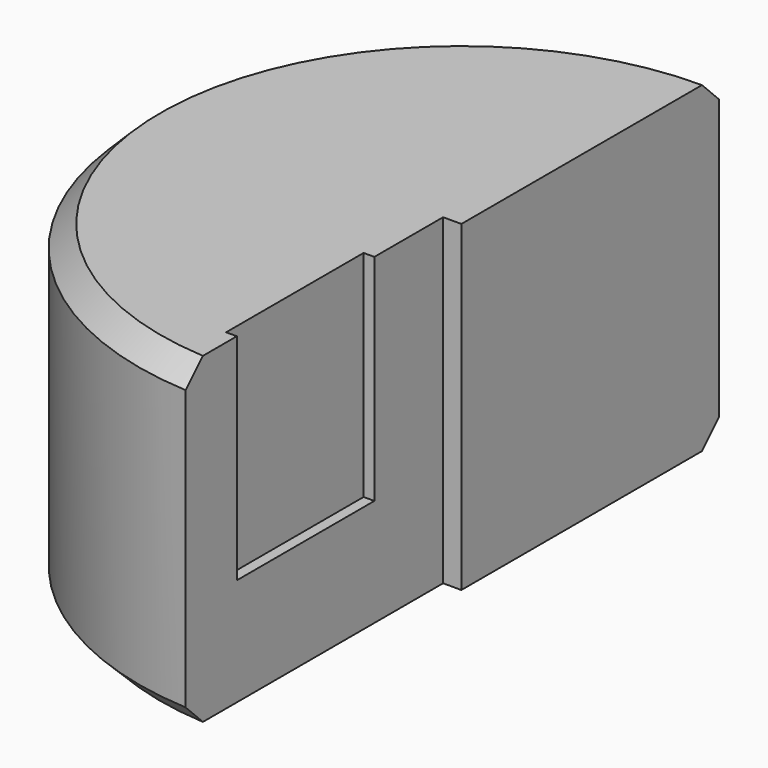
from build123d import *

# Parameters (mm, degrees)
F0_W     = 0.6
F0_H     = 8
F1_DEPTH = 15
F2_SIZE  = 1
F3_W     = 0.85
F3_H     = 15.628527
F4_DEPTH = 25
F5_W     = 0.5
F5_H     = 8
F6_DEPTH = 10


with BuildPart() as f1:
    # F0 (on Top) → F1 (new body)
    with BuildSketch(Plane.XY):
        with BuildLine():
            Line((0, -4), (0, 15))
            ThreePointArc((0, 15), (-15, 0), (0, -15))
            Line((0, -15), (0, -12))
            Line((0, -12), (-0.6, -12))
            Line((-0.6, -12), (-0.6, -4))
            Line((-0.6, -4), (0, -4))
        make_face()
        with Locations((-0.3, -8)):
            Rectangle(F0_W, F0_H)
    extrude(amount=F1_DEPTH)

    # F2
    f2_edges = [f1.edges().sort_by_distance(p)[0] for p in [
        (-15, 0, 15),
        (-15, 0, 0),
    ]]
    chamfer(f2_edges, length=F2_SIZE)

    # F3 (on face) → F4 (cut)
    with BuildSketch(Plane.XY.offset(15)):
        with Locations((-0.425, -7.814656)):
            Rectangle(F3_W, F3_H)
    extrude(amount=-F4_DEPTH, mode=Mode.SUBTRACT)

    # F5 (on face) → F6 (cut)
    with BuildSketch(Plane.XY.offset(15)):
        with Locations((-1.1, -8.000393)):
            Rectangle(F5_W, F5_H)
    extrude(amount=-F6_DEPTH, mode=Mode.SUBTRACT)


solid = f1.part
